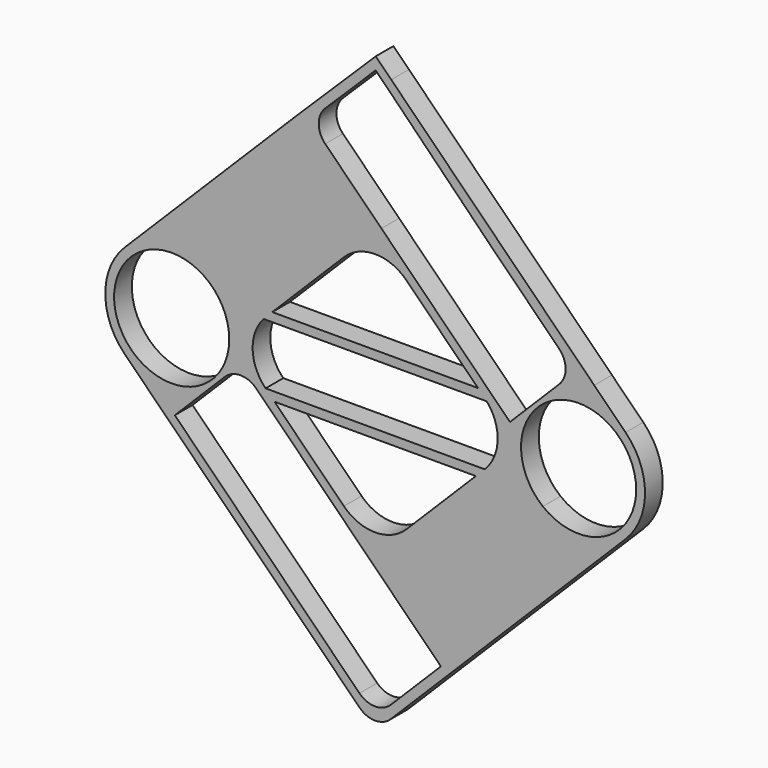
from build123d import *

# Parameters (mm, degrees)
F0_R     = 14.15
F0_R_2   = 65
F1_DEPTH = 25


with BuildPart() as f1:
    # F0 (on Front) → F1 (new body)
    with BuildSketch(Plane.XZ):
        with BuildLine():
            ThreePointArc((-45.16, -0.554618), (-49.304439, 9.450943), (-59.31, 13.595382))
            ThreePointArc((-59.31, 13.595382), (-69.31556, -10.560179), (-45.16, -0.554618))
        make_face()
        with BuildLine():
            ThreePointArc((123.103833, -34.704461), (137.722032, -1.000531), (125.362041, 33.595382))
            Line((125.362041, 33.595382), (-59.31, 33.595382))
            Line((-59.31, 33.595382), (-126.644303, 33.595382))
            ThreePointArc((-126.644303, 33.595382), (-139.004429, -1.000625), (-124.386167, -34.704674))
            Line((-124.386167, -34.704674), (123.103833, -34.704461))
        make_face()
        with BuildLine():
            ThreePointArc((-45.16, -0.554618), (-69.31556, -10.560179), (-59.31, 13.595382))
            ThreePointArc((-59.31, 13.595382), (-49.304439, 9.450943), (-45.16, -0.554618))
        make_face(mode=Mode.SUBTRACT)
        with Locations((-19.77, -0.554584)):
            Circle(F0_R, mode=Mode.SUBTRACT)
        with Locations((19.77, -0.55455)):
            Circle(F0_R, mode=Mode.SUBTRACT)
        with Locations((59.31, -0.554516)):
            Circle(F0_R, mode=Mode.SUBTRACT)
        with BuildLine():
            Line((282.212672, 53.686061), (246.853656, 89.048202))
            Line((246.853656, 89.048202), (17.554905, 318.335201))
            Line((17.554905, 318.335201), (0, 335.889206))
            Line((0, 335.889206), (-17.676278, 318.45751))
            Line((-17.676278, 318.45751), (-89.031199, 248.136771))
            Line((-89.031199, 248.136771), (-283.484913, 53.683525))
            ThreePointArc((-283.484913, 53.683525), (-305.451968, 0.651394), (-283.486245, -52.381288))
            Line((-283.486245, -52.381288), (-248.130547, -87.738676))
            Line((-248.130547, -87.738676), (-18.318307, -317.539138))
            ThreePointArc((-18.318307, -317.539138), (-0.641069, -324.861015), (17.036156, -317.539107))
            Line((17.036156, -317.539107), (87.7494, -246.829244))
            Line((87.7494, -246.829244), (282.209061, -52.378881))
            ThreePointArc((282.209061, -52.378881), (304.17732, 0.652842), (282.212672, 53.686061))
        make_face()
        with BuildLine():
            Line((-134.995067, -38.238091), (-7.719136, -165.521175))
            Line((-7.719136, -165.521175), (32.938254, -206.180851))
            Line((32.938254, -206.180851), (73.595644, -246.840526))
            Line((73.595644, -246.840526), (17.036144, -303.397322))
            ThreePointArc((17.036144, -303.397322), (-0.641081, -310.71923), (-18.318319, -303.397352))
            Line((-18.318319, -303.397352), (-226.917669, -94.808694))
            Line((-226.917669, -94.808694), (-170.350333, -38.238924))
            ThreePointArc((-170.350333, -38.238924), (-152.672872, -30.916213), (-134.995067, -38.238091))
        make_face(mode=Mode.SUBTRACT)
        with Locations((-230.451968, 0.650453)):
            Circle(F0_R_2, mode=Mode.SUBTRACT)
        with BuildLine():
            Line((-59.31, 33.595382), (125.362041, 33.595382))
            ThreePointArc((125.362041, 33.595382), (137.722032, -1.000531), (123.103833, -34.704461))
            Line((123.103833, -34.704461), (113.103346, -44.704469))
            Line((113.103346, -44.704469), (34.713373, -123.090695))
            ThreePointArc((34.713373, -123.090695), (-0.641078, -137.734511), (-35.995554, -123.090756))
            Line((-35.995554, -123.090756), (-114.385663, -44.704665))
            Line((-114.385663, -44.704665), (-124.386167, -34.704674))
            ThreePointArc((-124.386167, -34.704674), (-139.004429, -1.000625), (-126.644303, 33.595382))
            Line((-126.644303, 33.595382), (-59.31, 33.595382))
        make_face(mode=Mode.SUBTRACT)
        with BuildLine():
            ThreePointArc((294.17732, 0.655395), (257.474943, -57.86165), (188.815949, -50.295166))
            ThreePointArc((188.815949, -50.295166), (200.879698, 59.17244), (294.17732, 0.655395))
        make_face(mode=Mode.SUBTRACT)
        with BuildLine():
            Line((34.71316, 124.394051), (115.51597, 43.595382))
            Line((115.51597, 43.595382), (-116.798238, 43.595382))
            Line((-116.798238, 43.595382), (-35.995767, 124.39399))
            ThreePointArc((-35.995767, 124.39399), (-0.641316, 139.037806), (34.71316, 124.394051))
        make_face(mode=Mode.SUBTRACT)
        with BuildLine():
            Line((-56.90058, 265.761681), (-17.727525, 304.366981))
            Line((-17.727525, 304.366981), (-0.128117, 321.967291))
            Line((-0.128117, 321.967291), (17.497853, 304.238868))
            Line((17.497853, 304.238868), (132.20428, 187.444445))
            Line((132.20428, 187.444445), (207.161381, 112.491186))
            ThreePointArc((207.161381, 112.491186), (214.484165, 94.813704), (207.162287, 77.135847))
            Line((207.162287, 77.135847), (178.339883, 48.311965))
            Line((178.339883, 48.311965), (151.642131, 21.612845))
            Line((151.642131, 21.612845), (6.429647, 166.817887))
            Line((6.429647, 166.817887), (-57.03011, 230.277797))
            ThreePointArc((-57.03011, 230.277797), (-64.352252, 248.046704), (-56.90058, 265.761681))
        make_face(mode=Mode.SUBTRACT)
        with BuildLine():
            Line((282.212672, 53.686061), (246.853656, 89.048202))
            Line((246.853656, 89.048202), (17.554905, 318.335201))
            Line((17.554905, 318.335201), (0, 335.889206))
            Line((0, 335.889206), (-17.676278, 318.45751))
            Line((-17.676278, 318.45751), (-89.031199, 248.136771))
            Line((-89.031199, 248.136771), (-283.484913, 53.683525))
            ThreePointArc((-283.484913, 53.683525), (-305.451968, 0.651394), (-283.486245, -52.381288))
            Line((-283.486245, -52.381288), (-248.130547, -87.738676))
            Line((-248.130547, -87.738676), (-18.318307, -317.539138))
            ThreePointArc((-18.318307, -317.539138), (-0.641069, -324.861015), (17.036156, -317.539107))
            Line((17.036156, -317.539107), (87.7494, -246.829244))
            Line((87.7494, -246.829244), (282.209061, -52.378881))
            ThreePointArc((282.209061, -52.378881), (304.17732, 0.652842), (282.212672, 53.686061))
        make_face()
        with BuildLine():
            Line((-134.995067, -38.238091), (-7.719136, -165.521175))
            Line((-7.719136, -165.521175), (32.938254, -206.180851))
            Line((32.938254, -206.180851), (73.595644, -246.840526))
            Line((73.595644, -246.840526), (17.036144, -303.397322))
            ThreePointArc((17.036144, -303.397322), (-0.641081, -310.71923), (-18.318319, -303.397352))
            Line((-18.318319, -303.397352), (-226.917669, -94.808694))
            Line((-226.917669, -94.808694), (-170.350333, -38.238924))
            ThreePointArc((-170.350333, -38.238924), (-152.672872, -30.916213), (-134.995067, -38.238091))
        make_face(mode=Mode.SUBTRACT)
        with Locations((-230.451968, 0.650453)):
            Circle(F0_R_2, mode=Mode.SUBTRACT)
        with BuildLine():
            Line((-59.31, 33.595382), (125.362041, 33.595382))
            ThreePointArc((125.362041, 33.595382), (137.722032, -1.000531), (123.103833, -34.704461))
            Line((123.103833, -34.704461), (113.103346, -44.704469))
            Line((113.103346, -44.704469), (34.713373, -123.090695))
            ThreePointArc((34.713373, -123.090695), (-0.641078, -137.734511), (-35.995554, -123.090756))
            Line((-35.995554, -123.090756), (-114.385663, -44.704665))
            Line((-114.385663, -44.704665), (-124.386167, -34.704674))
            ThreePointArc((-124.386167, -34.704674), (-139.004429, -1.000625), (-126.644303, 33.595382))
            Line((-126.644303, 33.595382), (-59.31, 33.595382))
        make_face(mode=Mode.SUBTRACT)
        with BuildLine():
            ThreePointArc((294.17732, 0.655395), (257.474943, -57.86165), (188.815949, -50.295166))
            ThreePointArc((188.815949, -50.295166), (200.879698, 59.17244), (294.17732, 0.655395))
        make_face(mode=Mode.SUBTRACT)
        with BuildLine():
            Line((34.71316, 124.394051), (115.51597, 43.595382))
            Line((115.51597, 43.595382), (-116.798238, 43.595382))
            Line((-116.798238, 43.595382), (-35.995767, 124.39399))
            ThreePointArc((-35.995767, 124.39399), (-0.641316, 139.037806), (34.71316, 124.394051))
        make_face(mode=Mode.SUBTRACT)
        with BuildLine():
            Line((-56.90058, 265.761681), (-17.727525, 304.366981))
            Line((-17.727525, 304.366981), (-0.128117, 321.967291))
            Line((-0.128117, 321.967291), (17.497853, 304.238868))
            Line((17.497853, 304.238868), (132.20428, 187.444445))
            Line((132.20428, 187.444445), (207.161381, 112.491186))
            ThreePointArc((207.161381, 112.491186), (214.484165, 94.813704), (207.162287, 77.135847))
            Line((207.162287, 77.135847), (178.339883, 48.311965))
            Line((178.339883, 48.311965), (151.642131, 21.612845))
            Line((151.642131, 21.612845), (6.429647, 166.817887))
            Line((6.429647, 166.817887), (-57.03011, 230.277797))
            ThreePointArc((-57.03011, 230.277797), (-64.352252, 248.046704), (-56.90058, 265.761681))
        make_face(mode=Mode.SUBTRACT)
        Polygon((113.103346, -44.704469), (123.103833, -34.704461), (-124.386167, -34.704674), (-114.385663, -44.704665), align=None)
    extrude(amount=F1_DEPTH)


solid = f1.part
